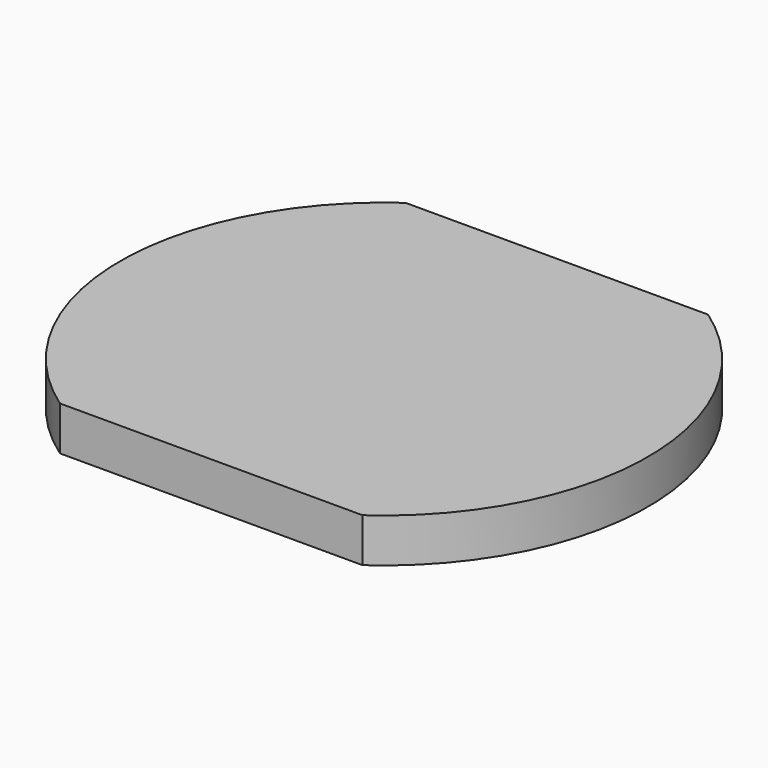
from build123d import *

# Parameters (mm, degrees)
PAD_1_DEPTH = 6.5


with BuildPart() as part:
    # Sketch_1 → Pad_1 (new body)
    with BuildSketch(Plane.XY):
        with BuildLine():
            ThreePointArc((22.449937, -33.484345), (39.052865, -1.414356), (22.26297, 30.558146))
            Line((22.26297, 30.558146), (-22.432757, 30.558146))
            ThreePointArc((-22.432757, 30.558146), (-39.047599, -1.507373), (-22.26297, -33.484345))
            Line((-22.26297, -33.484345), (22.449937, -33.484345))
        make_face()
    extrude(amount=PAD_1_DEPTH)


solid = part.part
